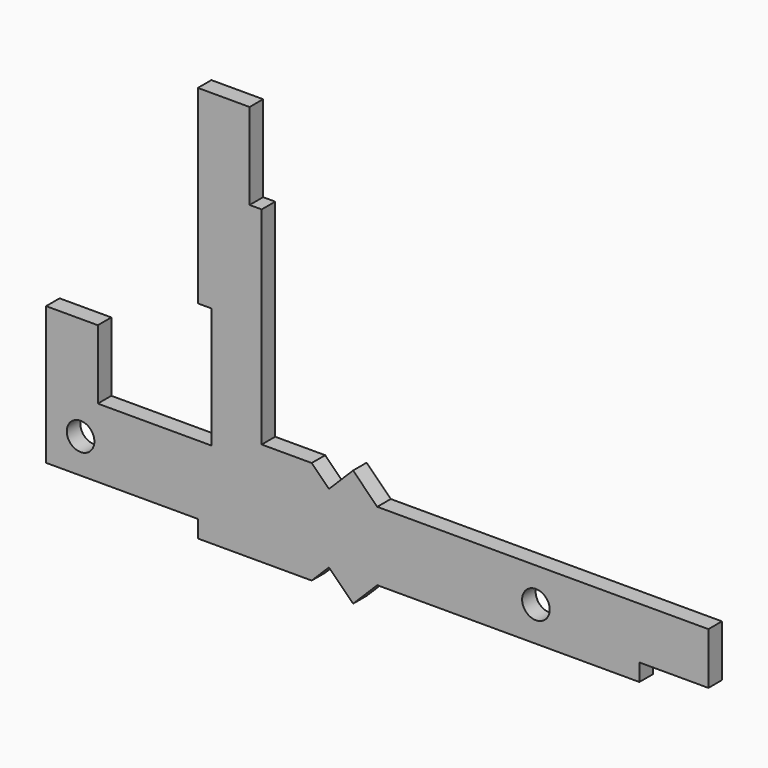
from build123d import *

# Parameters (mm, degrees)
F0_R     = 0.4
F1_DEPTH = 0.49


with BuildPart() as f1:
    # F0 (on Front) → F1 (new body)
    with BuildSketch(Plane.XZ):
        Polygon((0.5, 3), (-1, 3), (-1, -1), (3.4, -1), (3.4, -1.5), (6.7, -1.5), (7.2, -1), (7.9, -1.7), (8.6, -1), (16.2, -1), (16.2, -0.5), (18.2, -0.5), (18.2, 1), (8.6, 1), (7.9, 1.7), (7.2, 1), (6.7, 1.5), (5.25, 1.5), (5.25, 7.5), (4.9, 7.5), (4.9, 10), (3.4, 10), (3.4, 4.5), (3.8, 4.5), (3.8, 1), (0.5, 1), align=None)
        Circle(F0_R, mode=Mode.SUBTRACT)
        with Locations((13.2, 0)):
            Circle(F0_R, mode=Mode.SUBTRACT)
    extrude(amount=F1_DEPTH)


solid = f1.part
